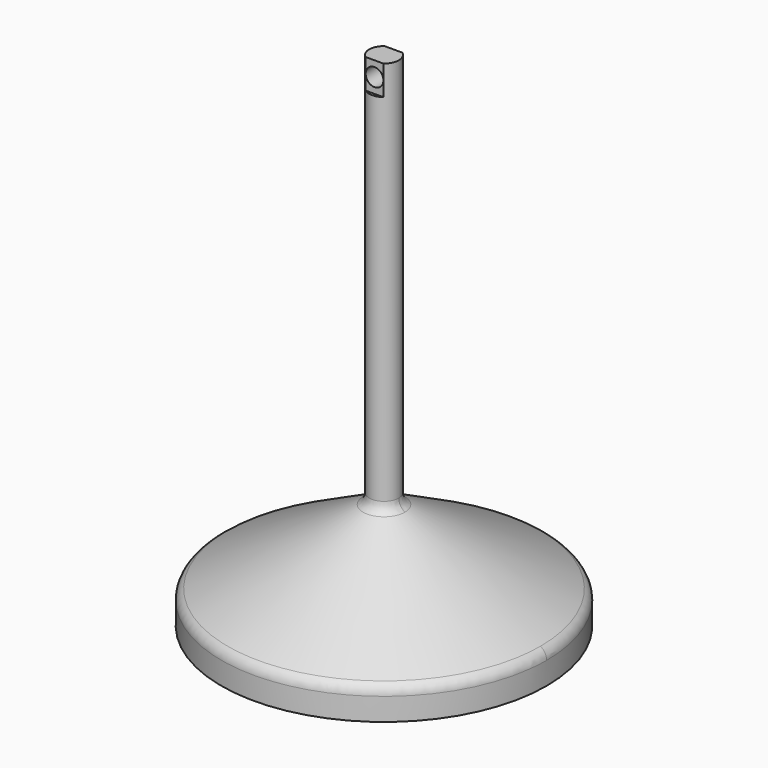
from build123d import *

# Parameters (mm, degrees)
F0_R      = 69.85
F1_DEPTH  = 12.7
F4_R      = 5.08
F5_R      = 6.35
F6_DEPTH  = 203.2
F8_DEPTH  = 12.7
F9_R      = 3.81
F10_DEPTH = 12.7
F11_R     = 5.08


with BuildPart() as f1:
    # F0 (on Top) → F1 (new body)
    with BuildSketch(Plane.XY):
        Circle(F0_R)
    extrude(amount=F1_DEPTH)

    # F2 (on Front) → F3 (revolve)
    with BuildSketch(Plane.XZ):
        Polygon((0, 50.8), (-69.85, 12.7), (0, 12.7), align=None)
    revolve(axis=Axis((0, 0, 31.75), (0, 0, -1)))

    # F4
    f4_edges = [f1.edges().sort_by_distance(p)[0] for p in [
        (0, -69.85, 12.7),
        (0, 69.85, 12.7),
    ]]
    fillet(f4_edges, radius=F4_R)

    # F5 (on Top) → F6 (join)
    with BuildSketch(Plane.XY):
        Circle(F5_R)
    extrude(amount=F6_DEPTH)

    # F7 (on face) → F8 (join)
    with BuildSketch(Plane.XY.offset(203.2)):
        with BuildLine():
            ThreePointArc((-3.81, 5.08), (-6.35, 0), (-3.81, -5.08))
            Line((-3.81, -5.08), (3.81, -5.08))
            ThreePointArc((3.81, -5.08), (6.35, 0), (3.81, 5.08))
            Line((3.81, 5.08), (-3.81, 5.08))
        make_face()
    extrude(amount=F8_DEPTH)

    # F9 (on face) → F10 (cut, symmetric)
    with BuildSketch(Plane.XZ.offset(5.08)):
        with Locations((0, 209.55)):
            Circle(F9_R)
    extrude(amount=F10_DEPTH, both=True, mode=Mode.SUBTRACT)

    # F11
    f11_edges = [f1.edges().sort_by_distance(p)[0] for p in [
        (0, -6.35, 47.336364),
        (0, 6.35, 47.336364),
        (-36.776284, 0, 30.740209),
        (3.3e-05, 67.202608, 14.144033),
        (3.3e-05, -67.202608, 14.144033),
    ]]
    fillet(f11_edges, radius=F11_R)


solid = f1.part
